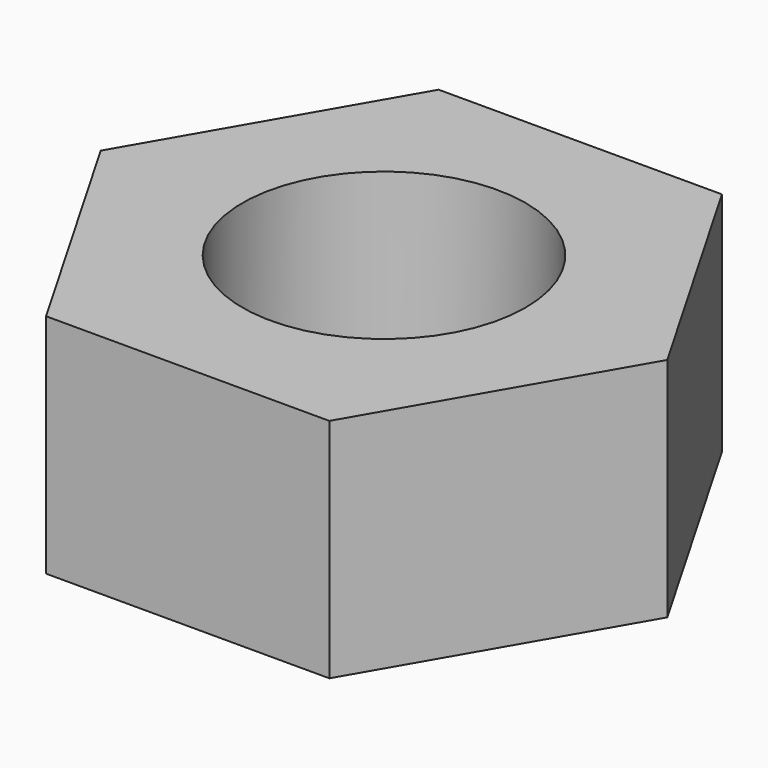
from build123d import *

# Parameters (mm, degrees)
CYLINDER_R     = 1
CYLINDER_DEPTH = 1.6
PAD_DEPTH      = 1.6


with BuildPart() as zylinder:
    # Cylinder → Cylinder (new body)
    with BuildSketch(Plane(origin=(2, 2, 0), x_dir=(1, 0, 0), z_dir=(0, 0, 1))):
        Circle(CYLINDER_R)
    extrude(amount=CYLINDER_DEPTH)


with BuildPart() as bolt:
    # Sketch → Pad (new body)
    with BuildSketch(Plane.XY):
        Polygon((0, 2), (1, 0.267949), (3, 0.267949), (4, 2), (3, 3.732051), (1, 3.732051), align=None)
    extrude(amount=PAD_DEPTH)

    # Cut: cut Zylinder
    add(zylinder.part, mode=Mode.SUBTRACT)


solid = bolt.part
